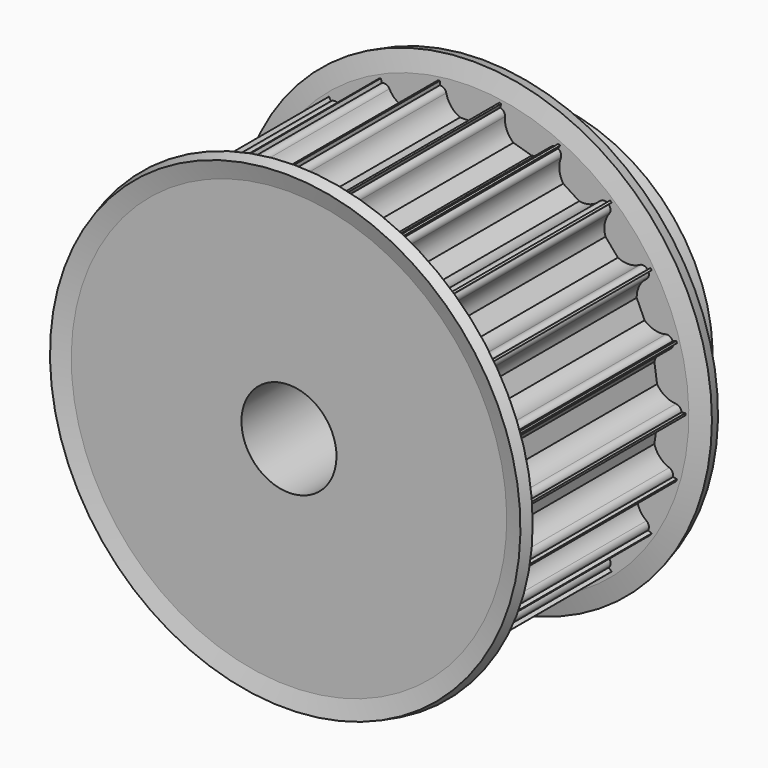
from build123d import *

# Parameters (mm, degrees)
F3_DEPTH = 40.001


with BuildPart() as f1:
    # F0 (on Right) → F1 (revolve)
    with BuildSketch(Plane.YZ):
        Polygon((0, 27.25), (0, 6), (40, 6), (40, 21.5), (30, 21.5), (30, 27.25), align=None)
    revolve(axis=Axis((0, 1.1868995641, 0), (0, 1, 0)))

    # F2 (on face) → F3 (cut, through all)
    with BuildSketch(Plane.XZ):
        with BuildLine():
            ThreePointArc((-3.6742346142, 26.5), (-3.1998929651, 26.3309475019), (-2.9393876913, 25.9))
            ThreePointArc((-2.9393876913, 25.9), (-2.3317592111, 24.6124357014), (-1.1989578808, 23.75))
            Line((-1.1989578808, 23.75), (1.1989578808, 23.75))
            ThreePointArc((1.1989578808, 23.75), (2.3317592111, 24.6124357014), (2.9393876913, 25.9))
            ThreePointArc((2.9393876913, 25.9), (3.1998929651, 26.3309475019), (3.6742346142, 26.5))
            Line((3.6742346142, 26.5), (3.75, 26.5))
            Line((3.75, 26.5), (3.75, 28.5))
            Line((3.75, 28.5), (-3.75, 28.5))
            Line((-3.75, 28.5), (-3.75, 26.5))
            Line((-3.75, 26.5), (-3.6742346142, 26.5))
        make_face()
        with BuildLine():
            Line((-4.4312792189, 28.4020468362), (-11.627476521, 26.2890526599))
            Line((-11.627476521, 26.2890526599), (-11.0640114074, 24.3700667126))
            Line((-11.0640114074, 24.3700667126), (-10.991315052, 24.3914122885))
            ThreePointArc((-10.991315052, 24.3914122885), (-10.4885599802, 24.36284509), (-10.1171950588, 24.0227468068))
            ThreePointArc((-10.1171950588, 24.0227468068), (-9.1714310195, 22.9585266345), (-7.8415398873, 22.450172654))
            Line((-7.8415398873, 22.450172654), (-5.5407565627, 23.1257435927))
            ThreePointArc((-5.5407565627, 23.1257435927), (-4.696817861, 24.2723916035), (-4.4765513856, 25.6789892264))
            ThreePointArc((-4.4765513856, 25.6789892264), (-4.3480103474, 26.1658731434), (-3.9405104606, 26.4617153131))
            Line((-3.9405104606, 26.4617153131), (-3.8678141052, 26.4830608889))
            Line((-3.8678141052, 26.4830608889), (-4.4312792189, 28.4020468362))
        make_face()
        with BuildLine():
            Line((-12.2535625494, 26.0031287511), (-18.5629640456, 21.9483226202))
            Line((-18.5629640456, 21.9483226202), (-17.4816824107, 20.2658155546))
            Line((-17.4816824107, 20.2658155546), (-17.4179445122, 20.3067774147))
            ThreePointArc((-17.4179445122, 20.3067774147), (-16.9275062434, 20.4210098603), (-16.4753674518, 20.1993135361))
            ThreePointArc((-16.4753674518, 20.1993135361), (-15.2680880313, 19.4446542794), (-13.8488469675, 19.331565836))
            Line((-13.8488469675, 19.331565836), (-11.8315918616, 20.6279769735))
            ThreePointArc((-11.8315918616, 20.6279769735), (-11.3448866831, 21.9659426914), (-11.5298268924, 23.3776194646))
            ThreePointArc((-11.5298268924, 23.3776194646), (-11.5436637202, 23.8809953572), (-11.2360188129, 24.2796598254))
            Line((-11.2360188129, 24.2796598254), (-11.1722809145, 24.3206216855))
            Line((-11.1722809145, 24.3206216855), (-12.2535625494, 26.0031287511))
        make_face()
        with BuildLine():
            Line((-19.0831351168, 21.4975918213), (-23.9945906214, 15.8294700136))
            Line((-23.9945906214, 15.8294700136), (-22.4830914727, 14.5197485457))
            Line((-22.4830914727, 14.5197485457), (-22.4334756965, 14.5770082038))
            ThreePointArc((-22.4334756965, 14.5770082038), (-21.9950866226, 14.8247858602), (-21.4988035567, 14.7394520126))
            ThreePointArc((-21.4988035567, 14.7394520126), (-20.1278153535, 14.3554916763), (-18.7342028287, 14.6468305231))
            Line((-18.7342028287, 14.6468305231), (-17.1639019531, 16.4590543393))
            ThreePointArc((-17.1639019531, 16.4590543393), (-17.0738602568, 17.8799437389), (-17.6490243949, 19.1823340058))
            ThreePointArc((-17.6490243949, 19.1823340058), (-17.8041181112, 19.661421353), (-17.6212517443, 20.1306106953))
            Line((-17.6212517443, 20.1306106953), (-17.5716359681, 20.1878703534))
            Line((-17.5716359681, 20.1878703534), (-19.0831351168, 21.4975918213))
        make_face()
        with BuildLine():
            Line((-24.3667055688, 15.2504478531), (-27.4823181664, 8.428207888))
            Line((-27.4823181664, 8.428207888), (-25.6630541757, 7.597377862))
            Line((-25.6630541757, 7.597377862), (-25.6315800969, 7.6662964811))
            ThreePointArc((-25.6315800969, 7.6662964811), (-25.2807558935, 8.0275458761), (-24.7805344557, 8.085487746))
            ThreePointArc((-24.7805344557, 8.085487746), (-23.3569067806, 8.103332513), (-22.1018249933, 8.7754961093))
            Line((-22.1018249933, 8.7754961093), (-21.105694786, 10.9567170083))
            ThreePointArc((-21.105694786, 10.9567170083), (-21.4196112146, 12.3454180808), (-22.3384029037, 13.4330099275))
            ThreePointArc((-22.3384029037, 13.4330099275), (-22.622188738, 13.8489959217), (-22.5789156569, 14.350699208))
            Line((-22.5789156569, 14.350699208), (-22.5474415781, 14.4196178271))
            Line((-22.5474415781, 14.4196178271), (-24.3667055688, 15.2504478531))
        make_face()
        with BuildLine():
            Line((-27.6762304501, 7.7678032978), (-28.7435917371, 0.3441424837))
            Line((-28.7435917371, 0.3441424837), (-26.7639488534, 0.0595128072))
            Line((-26.7639488534, 0.0595128072), (-26.7531663147, 0.1345070106))
            ThreePointArc((-26.7531663147, 0.1345070106), (-26.5183286723, 0.5799618667), (-26.0546938286, 0.7764853484))
            ThreePointArc((-26.0546938286, 0.7764853484), (-24.6937605292, 1.1946895419), (-23.6788887416, 2.1932231906))
            Line((-23.6788887416, 2.1932231906), (-23.3376297478, 4.5667316273))
            ThreePointArc((-23.3376297478, 4.5667316273), (-24.0300726591, 5.8107400708), (-25.2180568608, 6.5954232742))
            ThreePointArc((-25.2180568608, 6.5954232742), (-25.6075441726, 6.9146072039), (-25.707370105, 7.4081794179))
            Line((-25.707370105, 7.4081794179), (-25.6965875663, 7.4831736213))
            Line((-25.6965875663, 7.4831736213), (-27.6762304501, 7.7678032978))
        make_face()
        with BuildLine():
            Line((-28.7435917371, -0.3441424837), (-27.6762304501, -7.7678032978))
            Line((-27.6762304501, -7.7678032978), (-25.6965875663, -7.4831736213))
            Line((-25.6965875663, -7.4831736213), (-25.707370105, -7.4081794179))
            ThreePointArc((-25.707370105, -7.4081794179), (-25.6075441726, -6.9146072039), (-25.2180568608, -6.5954232742))
            ThreePointArc((-25.2180568608, -6.5954232742), (-24.0300726591, -5.8107400708), (-23.3376297478, -4.5667316273))
            Line((-23.3376297478, -4.5667316273), (-23.6788887416, -2.1932231906))
            ThreePointArc((-23.6788887416, -2.1932231906), (-24.6937605292, -1.1946895419), (-26.0546938286, -0.7764853484))
            ThreePointArc((-26.0546938286, -0.7764853484), (-26.5183286723, -0.5799618667), (-26.7531663147, -0.1345070106))
            Line((-26.7531663147, -0.1345070106), (-26.7639488534, -0.0595128072))
            Line((-26.7639488534, -0.0595128072), (-28.7435917371, -0.3441424837))
        make_face()
        with BuildLine():
            Line((-27.4823181664, -8.428207888), (-24.3667055688, -15.2504478531))
            Line((-24.3667055688, -15.2504478531), (-22.5474415781, -14.4196178271))
            Line((-22.5474415781, -14.4196178271), (-22.5789156569, -14.350699208))
            ThreePointArc((-22.5789156569, -14.350699208), (-22.622188738, -13.8489959217), (-22.3384029037, -13.4330099275))
            ThreePointArc((-22.3384029037, -13.4330099275), (-21.4196112146, -12.3454180808), (-21.105694786, -10.9567170083))
            Line((-21.105694786, -10.9567170083), (-22.1018249933, -8.7754961093))
            ThreePointArc((-22.1018249933, -8.7754961093), (-23.3569067806, -8.103332513), (-24.7805344557, -8.085487746))
            ThreePointArc((-24.7805344557, -8.085487746), (-25.2807558935, -8.0275458761), (-25.6315800969, -7.6662964811))
            Line((-25.6315800969, -7.6662964811), (-25.6630541757, -7.597377862))
            Line((-25.6630541757, -7.597377862), (-27.4823181664, -8.428207888))
        make_face()
        with BuildLine():
            Line((-23.9945906214, -15.8294700136), (-19.0831351168, -21.4975918213))
            Line((-19.0831351168, -21.4975918213), (-17.5716359681, -20.1878703534))
            Line((-17.5716359681, -20.1878703534), (-17.6212517443, -20.1306106953))
            ThreePointArc((-17.6212517443, -20.1306106953), (-17.8041181112, -19.661421353), (-17.6490243949, -19.1823340058))
            ThreePointArc((-17.6490243949, -19.1823340058), (-17.0738602568, -17.8799437389), (-17.1639019531, -16.4590543393))
            Line((-17.1639019531, -16.4590543393), (-18.7342028287, -14.6468305231))
            ThreePointArc((-18.7342028287, -14.6468305231), (-20.1278153535, -14.3554916763), (-21.4988035567, -14.7394520126))
            ThreePointArc((-21.4988035567, -14.7394520126), (-21.9950866226, -14.8247858602), (-22.4334756965, -14.5770082038))
            Line((-22.4334756965, -14.5770082038), (-22.4830914727, -14.5197485457))
            Line((-22.4830914727, -14.5197485457), (-23.9945906214, -15.8294700136))
        make_face()
        with BuildLine():
            Line((-18.5629640456, -21.9483226202), (-12.2535625494, -26.0031287511))
            Line((-12.2535625494, -26.0031287511), (-11.1722809145, -24.3206216855))
            Line((-11.1722809145, -24.3206216855), (-11.2360188129, -24.2796598254))
            ThreePointArc((-11.2360188129, -24.2796598254), (-11.5436637202, -23.8809953572), (-11.5298268924, -23.3776194646))
            ThreePointArc((-11.5298268924, -23.3776194646), (-11.3448866831, -21.9659426914), (-11.8315918616, -20.6279769735))
            Line((-11.8315918616, -20.6279769735), (-13.8488469675, -19.331565836))
            ThreePointArc((-13.8488469675, -19.331565836), (-15.2680880313, -19.4446542794), (-16.4753674518, -20.1993135361))
            ThreePointArc((-16.4753674518, -20.1993135361), (-16.9275062434, -20.4210098603), (-17.4179445122, -20.3067774147))
            Line((-17.4179445122, -20.3067774147), (-17.4816824107, -20.2658155546))
            Line((-17.4816824107, -20.2658155546), (-18.5629640456, -21.9483226202))
        make_face()
        with BuildLine():
            Line((-11.627476521, -26.2890526599), (-4.4312792189, -28.4020468362))
            Line((-4.4312792189, -28.4020468362), (-3.8678141052, -26.4830608889))
            Line((-3.8678141052, -26.4830608889), (-3.9405104606, -26.4617153131))
            ThreePointArc((-3.9405104606, -26.4617153131), (-4.3480103474, -26.1658731434), (-4.4765513856, -25.6789892264))
            ThreePointArc((-4.4765513856, -25.6789892264), (-4.696817861, -24.2723916035), (-5.5407565627, -23.1257435927))
            Line((-5.5407565627, -23.1257435927), (-7.8415398873, -22.450172654))
            ThreePointArc((-7.8415398873, -22.450172654), (-9.1714310195, -22.9585266345), (-10.1171950588, -24.0227468068))
            ThreePointArc((-10.1171950588, -24.0227468068), (-10.4885599802, -24.36284509), (-10.991315052, -24.3914122885))
            Line((-10.991315052, -24.3914122885), (-11.0640114074, -24.3700667126))
            Line((-11.0640114074, -24.3700667126), (-11.627476521, -26.2890526599))
        make_face()
        with BuildLine():
            Line((-3.75, -28.5), (3.75, -28.5))
            Line((3.75, -28.5), (3.75, -26.5))
            Line((3.75, -26.5), (3.6742346142, -26.5))
            ThreePointArc((3.6742346142, -26.5), (3.1998929651, -26.3309475019), (2.9393876913, -25.9))
            ThreePointArc((2.9393876913, -25.9), (2.3317592111, -24.6124357014), (1.1989578808, -23.75))
            Line((1.1989578808, -23.75), (-1.1989578808, -23.75))
            ThreePointArc((-1.1989578808, -23.75), (-2.3317592111, -24.6124357014), (-2.9393876913, -25.9))
            ThreePointArc((-2.9393876913, -25.9), (-3.1998929651, -26.3309475019), (-3.6742346142, -26.5))
            Line((-3.6742346142, -26.5), (-3.75, -26.5))
            Line((-3.75, -26.5), (-3.75, -28.5))
        make_face()
        with BuildLine():
            Line((4.4312792189, -28.4020468362), (11.627476521, -26.2890526599))
            Line((11.627476521, -26.2890526599), (11.0640114074, -24.3700667126))
            Line((11.0640114074, -24.3700667126), (10.991315052, -24.3914122885))
            ThreePointArc((10.991315052, -24.3914122885), (10.4885599802, -24.36284509), (10.1171950588, -24.0227468068))
            ThreePointArc((10.1171950588, -24.0227468068), (9.1714310195, -22.9585266345), (7.8415398873, -22.450172654))
            Line((7.8415398873, -22.450172654), (5.5407565627, -23.1257435927))
            ThreePointArc((5.5407565627, -23.1257435927), (4.696817861, -24.2723916035), (4.4765513856, -25.6789892264))
            ThreePointArc((4.4765513856, -25.6789892264), (4.3480103474, -26.1658731434), (3.9405104606, -26.4617153131))
            Line((3.9405104606, -26.4617153131), (3.8678141052, -26.4830608889))
            Line((3.8678141052, -26.4830608889), (4.4312792189, -28.4020468362))
        make_face()
        with BuildLine():
            Line((12.2535625494, -26.0031287511), (18.5629640456, -21.9483226202))
            Line((18.5629640456, -21.9483226202), (17.4816824107, -20.2658155546))
            Line((17.4816824107, -20.2658155546), (17.4179445122, -20.3067774147))
            ThreePointArc((17.4179445122, -20.3067774147), (16.9275062434, -20.4210098603), (16.4753674518, -20.1993135361))
            ThreePointArc((16.4753674518, -20.1993135361), (15.2680880313, -19.4446542794), (13.8488469675, -19.331565836))
            Line((13.8488469675, -19.331565836), (11.8315918616, -20.6279769735))
            ThreePointArc((11.8315918616, -20.6279769735), (11.3448866831, -21.9659426914), (11.5298268924, -23.3776194646))
            ThreePointArc((11.5298268924, -23.3776194646), (11.5436637202, -23.8809953572), (11.2360188129, -24.2796598254))
            Line((11.2360188129, -24.2796598254), (11.1722809145, -24.3206216855))
            Line((11.1722809145, -24.3206216855), (12.2535625494, -26.0031287511))
        make_face()
        with BuildLine():
            Line((19.0831351168, -21.4975918213), (23.9945906214, -15.8294700136))
            Line((23.9945906214, -15.8294700136), (22.4830914727, -14.5197485457))
            Line((22.4830914727, -14.5197485457), (22.4334756965, -14.5770082038))
            ThreePointArc((22.4334756965, -14.5770082038), (21.9950866226, -14.8247858602), (21.4988035567, -14.7394520126))
            ThreePointArc((21.4988035567, -14.7394520126), (20.1278153535, -14.3554916763), (18.7342028287, -14.6468305231))
            Line((18.7342028287, -14.6468305231), (17.1639019531, -16.4590543393))
            ThreePointArc((17.1639019531, -16.4590543393), (17.0738602568, -17.8799437389), (17.6490243949, -19.1823340058))
            ThreePointArc((17.6490243949, -19.1823340058), (17.8041181112, -19.661421353), (17.6212517443, -20.1306106953))
            Line((17.6212517443, -20.1306106953), (17.5716359681, -20.1878703534))
            Line((17.5716359681, -20.1878703534), (19.0831351168, -21.4975918213))
        make_face()
        with BuildLine():
            Line((24.3667055688, -15.2504478531), (27.4823181664, -8.428207888))
            Line((27.4823181664, -8.428207888), (25.6630541757, -7.597377862))
            Line((25.6630541757, -7.597377862), (25.6315800969, -7.6662964811))
            ThreePointArc((25.6315800969, -7.6662964811), (25.2807558935, -8.0275458761), (24.7805344557, -8.085487746))
            ThreePointArc((24.7805344557, -8.085487746), (23.3569067806, -8.103332513), (22.1018249933, -8.7754961093))
            Line((22.1018249933, -8.7754961093), (21.105694786, -10.9567170083))
            ThreePointArc((21.105694786, -10.9567170083), (21.4196112146, -12.3454180808), (22.3384029037, -13.4330099275))
            ThreePointArc((22.3384029037, -13.4330099275), (22.622188738, -13.8489959217), (22.5789156569, -14.350699208))
            Line((22.5789156569, -14.350699208), (22.5474415781, -14.4196178271))
            Line((22.5474415781, -14.4196178271), (24.3667055688, -15.2504478531))
        make_face()
        with BuildLine():
            Line((27.6762304501, -7.7678032978), (28.7435917371, -0.3441424837))
            Line((28.7435917371, -0.3441424837), (26.7639488534, -0.0595128072))
            Line((26.7639488534, -0.0595128072), (26.7531663147, -0.1345070106))
            ThreePointArc((26.7531663147, -0.1345070106), (26.5183286723, -0.5799618667), (26.0546938286, -0.7764853484))
            ThreePointArc((26.0546938286, -0.7764853484), (24.6937605292, -1.1946895419), (23.6788887416, -2.1932231906))
            Line((23.6788887416, -2.1932231906), (23.3376297478, -4.5667316273))
            ThreePointArc((23.3376297478, -4.5667316273), (24.0300726591, -5.8107400708), (25.2180568608, -6.5954232742))
            ThreePointArc((25.2180568608, -6.5954232742), (25.6075441726, -6.9146072039), (25.707370105, -7.4081794179))
            Line((25.707370105, -7.4081794179), (25.6965875663, -7.4831736213))
            Line((25.6965875663, -7.4831736213), (27.6762304501, -7.7678032978))
        make_face()
        with BuildLine():
            Line((28.7435917371, 0.3441424837), (27.6762304501, 7.7678032978))
            Line((27.6762304501, 7.7678032978), (25.6965875663, 7.4831736213))
            Line((25.6965875663, 7.4831736213), (25.707370105, 7.4081794179))
            ThreePointArc((25.707370105, 7.4081794179), (25.6075441726, 6.9146072039), (25.2180568608, 6.5954232742))
            ThreePointArc((25.2180568608, 6.5954232742), (24.0300726591, 5.8107400708), (23.3376297478, 4.5667316273))
            Line((23.3376297478, 4.5667316273), (23.6788887416, 2.1932231906))
            ThreePointArc((23.6788887416, 2.1932231906), (24.6937605292, 1.1946895419), (26.0546938286, 0.7764853484))
            ThreePointArc((26.0546938286, 0.7764853484), (26.5183286723, 0.5799618667), (26.7531663147, 0.1345070106))
            Line((26.7531663147, 0.1345070106), (26.7639488534, 0.0595128072))
            Line((26.7639488534, 0.0595128072), (28.7435917371, 0.3441424837))
        make_face()
        with BuildLine():
            Line((27.4823181664, 8.428207888), (24.3667055688, 15.2504478531))
            Line((24.3667055688, 15.2504478531), (22.5474415781, 14.4196178271))
            Line((22.5474415781, 14.4196178271), (22.5789156569, 14.350699208))
            ThreePointArc((22.5789156569, 14.350699208), (22.622188738, 13.8489959217), (22.3384029037, 13.4330099275))
            ThreePointArc((22.3384029037, 13.4330099275), (21.4196112146, 12.3454180808), (21.105694786, 10.9567170083))
            Line((21.105694786, 10.9567170083), (22.1018249933, 8.7754961093))
            ThreePointArc((22.1018249933, 8.7754961093), (23.3569067806, 8.103332513), (24.7805344557, 8.085487746))
            ThreePointArc((24.7805344557, 8.085487746), (25.2807558935, 8.0275458761), (25.6315800969, 7.6662964811))
            Line((25.6315800969, 7.6662964811), (25.6630541757, 7.597377862))
            Line((25.6630541757, 7.597377862), (27.4823181664, 8.428207888))
        make_face()
        with BuildLine():
            Line((23.9945906214, 15.8294700136), (19.0831351168, 21.4975918213))
            Line((19.0831351168, 21.4975918213), (17.5716359681, 20.1878703534))
            Line((17.5716359681, 20.1878703534), (17.6212517443, 20.1306106953))
            ThreePointArc((17.6212517443, 20.1306106953), (17.8041181112, 19.661421353), (17.6490243949, 19.1823340058))
            ThreePointArc((17.6490243949, 19.1823340058), (17.0738602568, 17.8799437389), (17.1639019531, 16.4590543393))
            Line((17.1639019531, 16.4590543393), (18.7342028287, 14.6468305231))
            ThreePointArc((18.7342028287, 14.6468305231), (20.1278153535, 14.3554916763), (21.4988035567, 14.7394520126))
            ThreePointArc((21.4988035567, 14.7394520126), (21.9950866226, 14.8247858602), (22.4334756965, 14.5770082038))
            Line((22.4334756965, 14.5770082038), (22.4830914727, 14.5197485457))
            Line((22.4830914727, 14.5197485457), (23.9945906214, 15.8294700136))
        make_face()
        with BuildLine():
            Line((18.5629640456, 21.9483226202), (12.2535625494, 26.0031287511))
            Line((12.2535625494, 26.0031287511), (11.1722809145, 24.3206216855))
            Line((11.1722809145, 24.3206216855), (11.2360188129, 24.2796598254))
            ThreePointArc((11.2360188129, 24.2796598254), (11.5436637202, 23.8809953572), (11.5298268924, 23.3776194646))
            ThreePointArc((11.5298268924, 23.3776194646), (11.3448866831, 21.9659426914), (11.8315918616, 20.6279769735))
            Line((11.8315918616, 20.6279769735), (13.8488469675, 19.331565836))
            ThreePointArc((13.8488469675, 19.331565836), (15.2680880313, 19.4446542794), (16.4753674518, 20.1993135361))
            ThreePointArc((16.4753674518, 20.1993135361), (16.9275062434, 20.4210098603), (17.4179445122, 20.3067774147))
            Line((17.4179445122, 20.3067774147), (17.4816824107, 20.2658155546))
            Line((17.4816824107, 20.2658155546), (18.5629640456, 21.9483226202))
        make_face()
        with BuildLine():
            Line((11.627476521, 26.2890526599), (4.4312792189, 28.4020468362))
            Line((4.4312792189, 28.4020468362), (3.8678141052, 26.4830608889))
            Line((3.8678141052, 26.4830608889), (3.9405104606, 26.4617153131))
            ThreePointArc((3.9405104606, 26.4617153131), (4.3480103474, 26.1658731434), (4.4765513856, 25.6789892264))
            ThreePointArc((4.4765513856, 25.6789892264), (4.696817861, 24.2723916035), (5.5407565627, 23.1257435927))
            Line((5.5407565627, 23.1257435927), (7.8415398873, 22.450172654))
            ThreePointArc((7.8415398873, 22.450172654), (9.1714310195, 22.9585266345), (10.1171950588, 24.0227468068))
            ThreePointArc((10.1171950588, 24.0227468068), (10.4885599802, 24.36284509), (10.991315052, 24.3914122885))
            Line((10.991315052, 24.3914122885), (11.0640114074, 24.3700667126))
            Line((11.0640114074, 24.3700667126), (11.627476521, 26.2890526599))
        make_face()
    extrude(amount=-F3_DEPTH, mode=Mode.SUBTRACT)

    # F4 (on Right) → F6 (revolve)
    with BuildSketch(Plane.YZ):
        Polygon((0, 27.4932604062), (0, 22.6907391525), (1.5, 22.6907391525), (1.5, 27.6907391525), (0.0511112606, 27.3025105849), align=None)
        Polygon((-0.5919668013, 29.7025105849), (0, 27.4932604062), (0, 27.6907391525), (1.5, 27.6907391525), (0.8569219382, 30.0907391525), align=None)
        Polygon((0, 27.6907391525), (0, 27.4932604062), (0.0511112606, 27.3025105849), (1.5, 27.6907391525), align=None)
        Polygon((28.5, 27.6907391525), (28.5, 22.6907391525), (30, 22.6907391525), (30, 27.4932604062), (29.9488887394, 27.3025105849), align=None)
        Polygon((29.1430780618, 30.0907391525), (28.5, 27.6907391525), (30, 27.6907391525), (30, 27.4932604062), (30.5919668013, 29.7025105849), align=None)
        Polygon((30, 27.6907391525), (28.5, 27.6907391525), (29.9488887394, 27.3025105849), (30, 27.4932604062), align=None)
    revolve(axis=Axis((0, 10.9949558973, 0), (0, 1, 0)))


solid = f1.part
